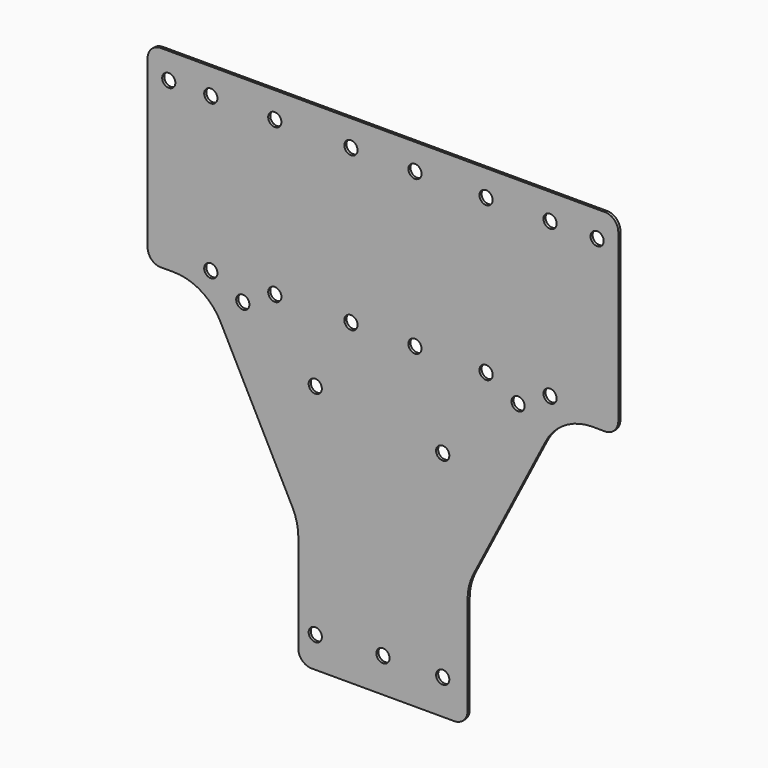
from build123d import *

# Parameters (mm, degrees)
F0_W     = 178
F0_H     = 188
F1_DEPTH = 1
F2_R     = 2.5
F3_DEPTH = 1.001
F5_DEPTH = 1.001
F6_R     = 5
F7_R     = 20
F9_DEPTH = 0.3


with BuildPart() as f1:
    # F0 (on Front) → F1 (new body)
    with BuildSketch(Plane.XZ):
        with Locations((0, -11)):
            Rectangle(F0_W, F0_H)
    extrude(amount=F1_DEPTH)

    # F2 (on face) → F3 (cut, through all)
    with BuildSketch(Plane(origin=(0, 0, 0), x_dir=(-1, 0, 0), z_dir=(0, 1, 0))):
        with Locations((-81, 73.2)):
            Circle(F2_R)
        with Locations((81, 73.2)):
            Circle(F2_R)
        with Locations((53, 8.5)):
            Circle(F2_R)
        with Locations((-51.1, 8.5)):
            Circle(F2_R)
        with Locations((0, -92)):
            Circle(F2_R)
        with Locations((-22.6, -91.8)):
            Circle(F2_R)
        with Locations((25.6, -93.3)):
            Circle(F2_R)
        with Locations((-22.6, -17.2)):
            Circle(F2_R)
        with Locations((25.6, -10.6)):
            Circle(F2_R)
        with Locations((-63.2, 73.2)):
            Circle(F2_R)
        with Locations((-39, 73.2)):
            Circle(F2_R)
        with Locations((-39, 15)):
            Circle(F2_R)
        with Locations((-63.2, 15)):
            Circle(F2_R)
        with Locations((40.9, 73.2)):
            Circle(F2_R)
        with Locations((65.1, 73.2)):
            Circle(F2_R)
        with Locations((65.1, 15)):
            Circle(F2_R)
        with Locations((40.9, 15)):
            Circle(F2_R)
        with Locations((-12.1, 73.2)):
            Circle(F2_R)
        with Locations((12.1, 73.2)):
            Circle(F2_R)
        with Locations((-12.1, 15)):
            Circle(F2_R)
        with Locations((12.1, 15)):
            Circle(F2_R)
    extrude(amount=-F3_DEPTH, mode=Mode.SUBTRACT)

    # F4 (on face) → F5 (cut, through all)
    with BuildSketch(Plane(origin=(0, 0, 0), x_dir=(-1, 0, 0), z_dir=(0, 1, 0))):
        Polygon((-94, -113), (-32, -113), (-32, -58), (-67, 10), (-94, 10), align=None)
        Polygon((32, -58), (32, -113), (94, -113), (94, 10), (67, 10), align=None)
    extrude(amount=-F5_DEPTH, mode=Mode.SUBTRACT)

    # F6
    f6_edges = [f1.edges().sort_by_distance(p)[0] for p in [
        (89, -0.5, 83),
        (-89, -0.5, 83),
        (-89, -0.5, 10),
        (-32, -0.5, -105),
        (32, -0.5, -105),
        (89, -0.5, 10),
    ]]
    fillet(f6_edges, radius=F6_R)

    # F7
    f7_edges = [f1.edges().sort_by_distance(p)[0] for p in [
        (67, -0.5, 10),
        (32, -0.5, -58),
        (-32, -0.5, -58),
        (-67, -0.5, 10),
    ]]
    fillet(f7_edges, radius=F7_R)

    # F8 (on face) → F9 (cut)
    with BuildSketch(Plane.XZ):
        Polygon((82.946427, 67.366861), (80.661148, 69.433466), (78.453593, 67.366861), align=None)
        Polygon((52.970854, 0.529755), (50.685575, 2.59636), (48.47802, 0.529755), align=None)
        Polygon((-51.300323, -0.06174), (-53.585603, 2.004865), (-55.793157, -0.06174), align=None)
        Polygon((1.892914, -98.51862), (-0.392365, -96.452015), (-2.59992, -98.51862), align=None)
        Polygon((-78.801448, 67.370405), (-81.086727, 69.43701), (-83.294282, 67.370405), align=None)
    extrude(amount=F9_DEPTH, mode=Mode.SUBTRACT)


solid = f1.part
